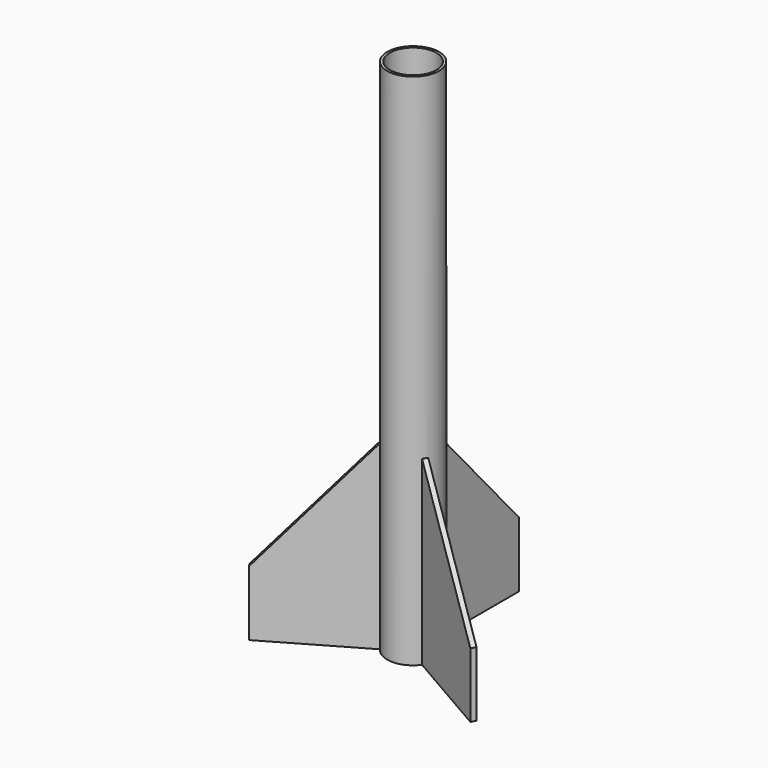
from build123d import *

# Parameters (mm, degrees)
F0_R     = 9
F1_DEPTH = 70
F2_R     = 9
F3_DEPTH = 130
F5_DEPTH = 2
F7_DEPTH = 25
F9_DEPTH = 25


with BuildPart() as f1:
    # F0 (on Top) → F1 (new body)
    with BuildSketch(Plane.XY):
        with BuildLine():
            Line((-1, 49.9498743711), (-1, 9.9498743711))
            ThreePointArc((-1, 9.9498743711), (-8.6602540378, 5), (-9.1168439698, -4.1089117817))
            Line((-9.1168439698, -4.1089117817), (-43.7578601212, -24.1089117817))
            Line((-43.7578601212, -24.1089117817), (-43.2578601212, -24.9749371855))
            Line((-43.2578601212, -24.9749371855), (-42.7578601212, -25.8409625893))
            Line((-42.7578601212, -25.8409625893), (-8.1168439698, -5.8409625893))
            ThreePointArc((-8.1168439698, -5.8409625893), (0, -10), (8.1168439698, -5.8409625893))
            Line((8.1168439698, -5.8409625893), (42.7578601212, -25.8409625893))
            Line((42.7578601212, -25.8409625893), (43.2578601212, -24.9749371855))
            Line((43.2578601212, -24.9749371855), (43.7578601212, -24.1089117817))
            Line((43.7578601212, -24.1089117817), (9.1168439698, -4.1089117817))
            ThreePointArc((9.1168439698, -4.1089117817), (8.6602540378, 5), (1, 9.9498743711))
            Line((1, 9.9498743711), (1, 49.9498743711))
            Line((1, 49.9498743711), (0, 49.9498743711))
            Line((0, 49.9498743711), (-1, 49.9498743711))
        make_face()
        Circle(F0_R, mode=Mode.SUBTRACT)
    extrude(amount=F1_DEPTH)

    # F2 (on face) → F3 (join)
    with BuildSketch(Plane.XY.offset(70)):
        with BuildLine():
            ThreePointArc((9.1168439698, -4.1089117817), (9.7767182556, -2.1013757758), (10, 0))
            ThreePointArc((10, 0), (7.4161984871, 6.7082039325), (1, 9.9498743711))
            ThreePointArc((1, 9.9498743711), (0, 10), (-1, 9.9498743711))
            ThreePointArc((-1, 9.9498743711), (-8.6602540378, 5), (-9.1168439698, -4.1089117817))
            ThreePointArc((-9.1168439698, -4.1089117817), (-8.6602540378, -5), (-8.1168439698, -5.8409625893))
            ThreePointArc((-8.1168439698, -5.8409625893), (0, -10), (8.1168439698, -5.8409625893))
            ThreePointArc((8.1168439698, -5.8409625893), (8.6602540378, -5), (9.1168439698, -4.1089117817))
        make_face()
        Circle(F2_R, mode=Mode.SUBTRACT)
    extrude(amount=F3_DEPTH)

    # F4 (on face) → F5 (cut, through all)
    with BuildSketch(Plane.YZ.offset(1)):
        Polygon((49.9498743711, 70), (9.9498743711, 70), (49.9498743711, 25), align=None)
    extrude(amount=-F5_DEPTH, mode=Mode.SUBTRACT)

    # F6 (on face) → F7 (cut)
    with BuildSketch(Plane(origin=(0.5, 0.8660254038, 0), x_dir=(-0.8660254038, 0.5, 0), z_dir=(0.5, 0.8660254038, 0))):
        Polygon((-49.9498743711, 25), (-9.9498743711, 70), (-49.9498743711, 70), align=None)
    extrude(amount=-F7_DEPTH, mode=Mode.SUBTRACT)

    # F8 (on face) → F9 (cut)
    with BuildSketch(Plane(origin=(-0.5, 0.8660254038, 0), x_dir=(-0.8660254038, -0.5, 0), z_dir=(-0.5, 0.8660254038, 0))):
        Polygon((49.9498743711, 70), (9.9498743711, 70), (49.9498743711, 25), align=None)
    extrude(amount=-F9_DEPTH, mode=Mode.SUBTRACT)


solid = f1.part
